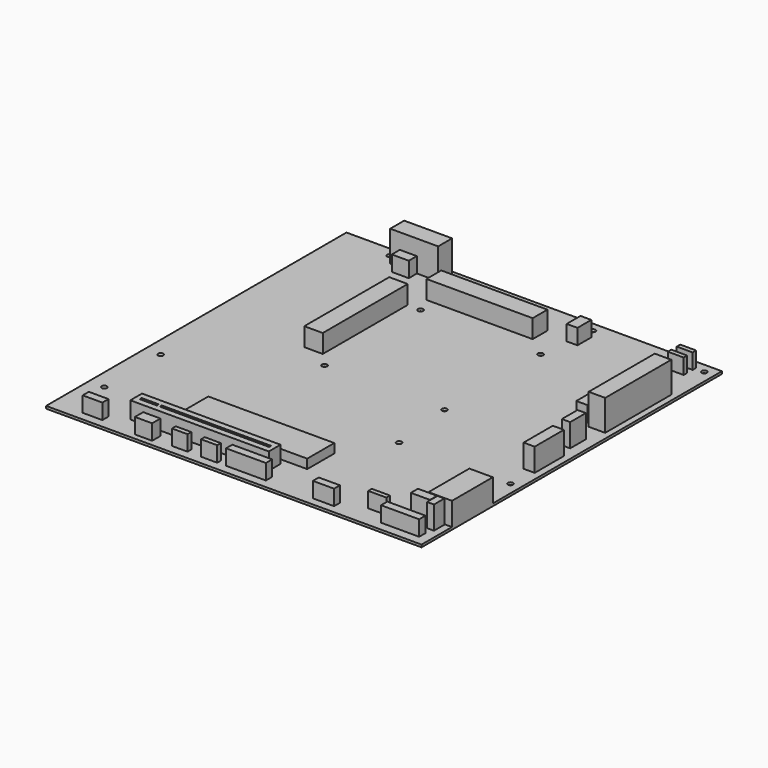
from build123d import *

# Parameters (mm, degrees)
SKETCH083_W     = 244
SKETCH083_H     = 244
PAD053_DEPTH    = 1.6
SKETCH084_W     = 12.805552
SKETCH084_H     = 4.986233
SKETCH084_W_2   = 11.219025
SKETCH084_H_2   = 6.742746
SKETCH084_W_3   = 10.085793
SKETCH084_H_3   = 3.059733
SKETCH084_W_4   = 10.482422
SKETCH084_H_4   = 3.003072
SKETCH084_W_5   = 25.894417
SKETCH084_H_5   = 5.099556
SKETCH084_W_6   = 13.772156
SKETCH084_H_6   = 4.775269
SKETCH084_W_7   = 24.776046
SKETCH084_H_7   = 5.121302
SKETCH084_W_8   = 11.765168
SKETCH084_H_8   = 2.906684
SKETCH084_W_9   = 7.128295
SKETCH084_H_9   = 11.142288
SKETCH084_W_10  = 10.311813
SKETCH084_H_10  = 2.837479
SKETCH084_W_11  = 10.311814
SKETCH084_H_11  = 2.837478
SKETCH084_W_12  = 7.015946
SKETCH084_H_12  = 11.242416
SKETCH084_W_13  = 11.016556
SKETCH084_H_13  = 6.50441
PAD054_DEPTH    = 10
SKETCH085_W     = 15.253067
SKETCH085_H     = 33.165085
SKETCH085_W_2   = 7.187866
SKETCH085_H_2   = 23.70736
SKETCH085_W_3   = 5.42244
SKETCH085_H_3   = 12.736404
SKETCH085_W_4   = 12.425812
SKETCH085_H_4   = 5.750149
SKETCH085_W_5   = 4.511801
SKETCH085_H_5   = 8.449646
PAD055_DEPTH    = 15
SKETCH086_W     = 10.737412
SKETCH086_H     = 53.687088
SKETCH086_W_2   = 31.147434
SKETCH086_H_2   = 11.349274
PAD056_DEPTH    = 20
SKETCH089_W     = 90
SKETCH089_H     = 9.5
PAD059_DEPTH    = 11
SKETCH090_W     = 81.9
SKETCH090_H     = 22
PAD061_DEPTH    = 6
SKETCH100_R     = 1.7
HOLE_DEPTH      = 1.601
SKETCH_W        = 69
SKETCH_H        = 12
SKETCH_W_2      = 12
SKETCH_H_2      = 69
PAD_DEPTH       = 12
SKETCH116_W     = 11.2
SKETCH116_H     = 1.6
SKETCH116_W_2   = 71.15
POCKET029_DEPTH = 7.35


with BuildPart() as part:
    # Sketch083 → Pad053 (new body)
    with BuildSketch(Plane.XY):
        with Locations((122, 122)):
            Rectangle(SKETCH083_W, SKETCH083_H)
    extrude(amount=PAD053_DEPTH)

    # Sketch084 (on Face6 of Pad053) → Pad054 (join)
    with BuildSketch(Plane.XY.offset(1.6)):
        with Locations((25.66175, 8.1425655)):
            Rectangle(SKETCH084_W, SKETCH084_H)
        with Locations((60.3814395, 7.038229)):
            Rectangle(SKETCH084_W_2, SKETCH084_H_2)
        with Locations((82.4398765, 7.0638115)):
            Rectangle(SKETCH084_W_3, SKETCH084_H_3)
        with Locations((101.593994, 6.977586)):
            Rectangle(SKETCH084_W_4, SKETCH084_H_4)
        with Locations((125.3647115, 8.201877)):
            Rectangle(SKETCH084_W_5, SKETCH084_H_5)
        with Locations((176.093216, 7.6274735)):
            Rectangle(SKETCH084_W_6, SKETCH084_H_6)
        with Locations((225.320961, 8.494646)):
            Rectangle(SKETCH084_W_7, SKETCH084_H_7)
        with Locations((203.897812, 15.63834)):
            Rectangle(SKETCH084_W_8, SKETCH084_H_8)
        with Locations((222.3003845, 162.861565)):
            Rectangle(SKETCH084_W_9, SKETCH084_H_9)
        with Locations((226.3459395, 237.2302015)):
            Rectangle(SKETCH084_W_10, SKETCH084_H_10)
        with Locations((226.276741, 230.032692)):
            Rectangle(SKETCH084_W_11, SKETCH084_H_11)
        with Locations((165.498787, 226.013008)):
            Rectangle(SKETCH084_W_12, SKETCH084_H_12)
        with Locations((50.544289, 227.792839)):
            Rectangle(SKETCH084_W_13, SKETCH084_H_13)
    extrude(amount=PAD054_DEPTH)

    # Sketch085 (on Face5 of Pad054) → Pad055 (join)
    with BuildSketch(Plane.XY.offset(1.6)):
        with Locations((236.3734665, 41.3033025)):
            Rectangle(SKETCH085_W, SKETCH085_H)
        with Locations((236.016449, 109.243)):
            Rectangle(SKETCH085_W_2, SKETCH085_H_2)
        with Locations((234.125511, 136.078026)):
            Rectangle(SKETCH085_W_3, SKETCH085_H_3)
        with Locations((228.421982, 21.4103315)):
            Rectangle(SKETCH085_W_4, SKETCH085_H_4)
        with Locations((237.1440995, 20.060583)):
            Rectangle(SKETCH085_W_5, SKETCH085_H_5)
    extrude(amount=PAD055_DEPTH)

    # Sketch086 (on Face5 of Pad055) → Pad056 (join)
    with BuildSketch(Plane.XY.offset(1.6)):
        with Locations((234.692436, 180.943504)):
            Rectangle(SKETCH086_W, SKETCH086_H)
        with Locations((54.290396, 236.828354)):
            Rectangle(SKETCH086_W_2, SKETCH086_H_2)
    extrude(amount=PAD056_DEPTH)

    # Sketch089 → Pad059 (join)
    with BuildSketch(Plane.XY.offset(1.6)):
        with Locations((87.75, 19.75)):
            Rectangle(SKETCH089_W, SKETCH089_H)
    extrude(amount=PAD059_DEPTH)

    # Sketch090 (on Face5 of Pad059) → Pad061 (join)
    with BuildSketch(Plane.XY.offset(1.6)):
        with Locations((105.95, 39.5)):
            Rectangle(SKETCH090_W, SKETCH090_H)
    extrude(amount=PAD061_DEPTH)

    # Sketch100 → Hole (cut, through all)
    with BuildSketch(Plane.XY.offset(1.6)):
        with Locations((82.56, 123)):
            Circle(SKETCH100_R)
        with Locations((160.56, 123)):
            Circle(SKETCH100_R)
        with Locations((160.56, 201)):
            Circle(SKETCH100_R)
        with Locations((82.56, 201)):
            Circle(SKETCH100_R)
        with Locations((33.02, 237.83)):
            Circle(SKETCH100_R)
        with Locations((165.1, 237.83)):
            Circle(SKETCH100_R)
        with Locations((237.49, 237.83)):
            Circle(SKETCH100_R)
        with Locations((237.49, 80.35)):
            Circle(SKETCH100_R)
        with Locations((165.1, 80.35)):
            Circle(SKETCH100_R)
        with Locations((165.1, 14.31)):
            Circle(SKETCH100_R)
        with Locations((10.16, 34.63)):
            Circle(SKETCH100_R)
        with Locations((10.16, 80.35)):
            Circle(SKETCH100_R)
    extrude(amount=-HOLE_DEPTH, mode=Mode.SUBTRACT)

    # Sketch (on Face5 of Pad061) → Pad (join)
    with BuildSketch(Plane.XY.offset(1.6)):
        with Locations((112.5, 217.5)):
            Rectangle(SKETCH_W, SKETCH_H)
        with Locations((68, 166.75)):
            Rectangle(SKETCH_W_2, SKETCH_H_2)
    extrude(amount=PAD_DEPTH)

    # Sketch116 (on Face119 of Pad) → Pocket029 (cut)
    with BuildSketch(Plane.XY.offset(12.6)):
        with Locations((51.25, 19.75)):
            Rectangle(SKETCH116_W, SKETCH116_H)
        with Locations((94.275, 19.75)):
            Rectangle(SKETCH116_W_2, SKETCH116_H)
    extrude(amount=-POCKET029_DEPTH, mode=Mode.SUBTRACT)


solid = part.part
